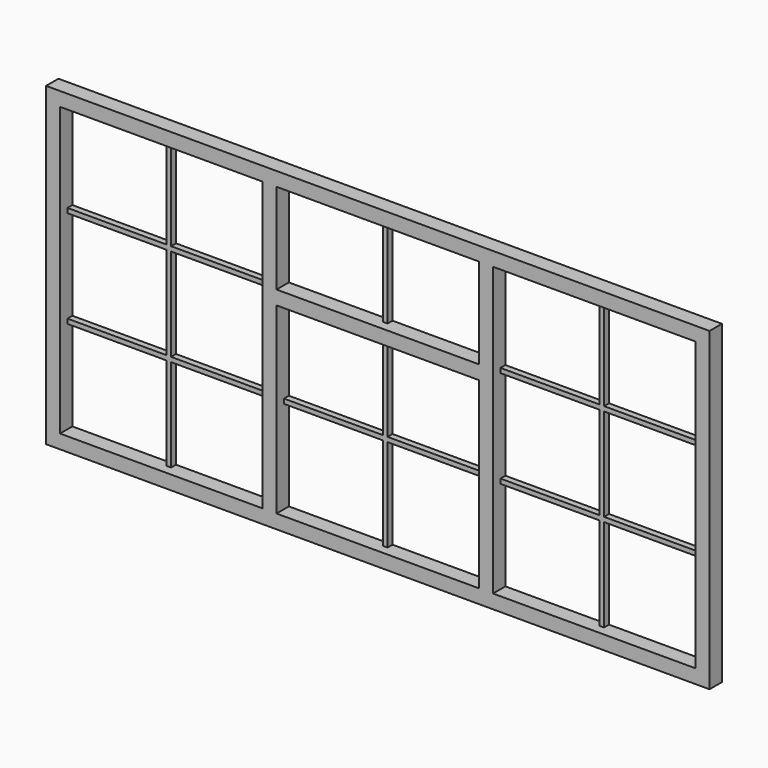
from build123d import *

# Parameters (mm, degrees)
F0_W     = 2145
F0_H     = 1020
F0_W_2   = 655
F0_H_2   = 592.5
F0_H_3   = 930
F0_H_4   = 292.5
F1_DEPTH = 50
F2_W     = 320
F2_H     = 15
F2_W_2   = 15
F2_H_2   = 292.5
F3_DEPTH = 20


with BuildPart() as f1:
    # F0 (on Front) → F1 (new body)
    with BuildSketch(Plane.XZ):
        with Locations((1072.5, 510)):
            Rectangle(F0_W, F0_H)
        with Locations((1072.5, 341.25)):
            Rectangle(F0_W_2, F0_H_2, mode=Mode.SUBTRACT)
        with Locations((372.5, 510)):
            Rectangle(F0_W_2, F0_H_3, mode=Mode.SUBTRACT)
        with Locations((1772.5, 510)):
            Rectangle(F0_W_2, F0_H_3, mode=Mode.SUBTRACT)
        with Locations((1072.5, 828.75)):
            Rectangle(F0_W_2, F0_H_4, mode=Mode.SUBTRACT)
    extrude(amount=F1_DEPTH)

    # F2 (on Front) → F3 (join)
    with BuildSketch(Plane.XZ):
        Polygon((1780, 975), (1765, 975), (1765, 675), (1765, 660), (1765, 360), (1445, 360), (1445, 345), (1765, 345), (1765, 45), (1780, 45), (1780, 345), (2100, 345), (2100, 360), (1780, 360), (1780, 660), (1780, 675), align=None)
        with Locations((1605, 667.5)):
            Rectangle(F2_W, F2_H)
        with Locations((1940, 667.5)):
            Rectangle(F2_W, F2_H)
        with Locations((1072.5, 828.75)):
            Rectangle(F2_W_2, F2_H_2)
        Polygon((1080, 637.5), (1065, 637.5), (1065, 360), (745, 360), (745, 345), (1065, 345), (1065, 45), (1080, 45), (1080, 345), (1400, 345), (1400, 360), (1080, 360), align=None)
        Polygon((380, 975), (365, 975), (365, 675), (45, 675), (45, 660), (365, 660), (365, 360), (45, 360), (45, 345), (365, 345), (365, 45), (380, 45), (380, 345), (700, 345), (700, 360), (380, 360), (380, 660), (700, 660), (700, 675), (380, 675), align=None)
    extrude(amount=F3_DEPTH)


solid = f1.part
